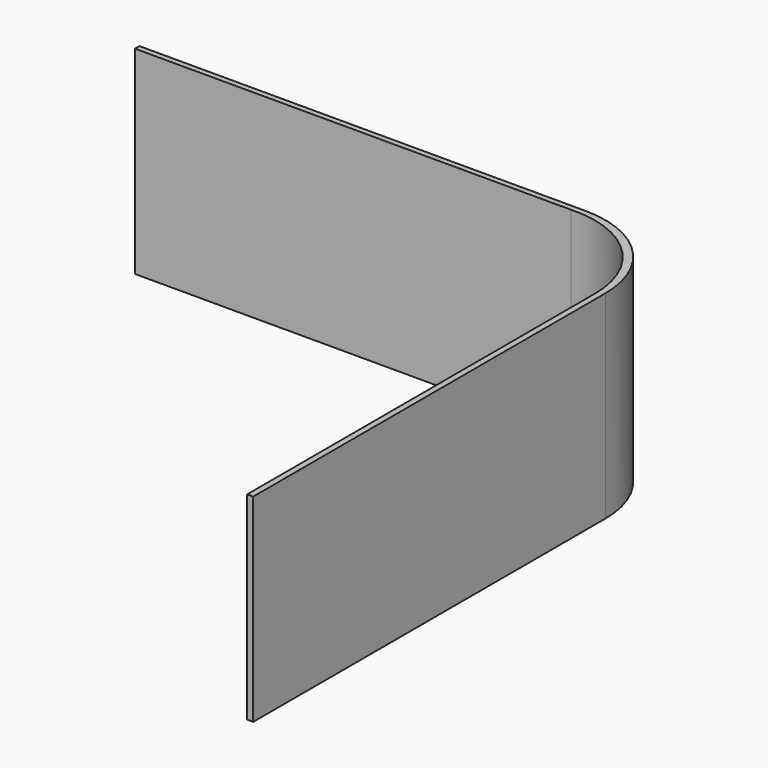
from build123d import *

# Parameters (mm, degrees)
F1_DEPTH = 101.6
F2_DEPTH = 152.4
F3_DEPTH = 152.4


with BuildPart() as f1:
    # F0 (on Top) → F1 (new body)
    with BuildSketch(Plane.XY):
        with BuildLine():
            Line((50.8, -73.0918422341), (50.8, 0))
            ThreePointArc((50.8, 0), (35.9210244843, 35.9210244843), (0, 50.8))
            Line((0, 50.8), (-76.0997384787, 50.8))
            Line((-76.0997384787, 50.8), (-76.0997384787, 47.9443576366))
            Line((-76.0997384787, 47.9443576366), (-5.2502147954, 47.9443576366))
            ThreePointArc((-5.2502147954, 47.9443576366), (32.074779717, 33.8507856659), (47.7087852046, -2.8556423634))
            Line((47.7087852046, -2.8556423634), (47.7087852046, -73.0918422341))
            Line((47.7087852046, -73.0918422341), (50.8, -73.0918422341))
        make_face()
    extrude(amount=F1_DEPTH)

    # F2 (add): a face of the model
    f2_faces = [f1.faces().sort_by_distance(p)[0] for p in [
        (49.2543926023, -73.0918422341, 50.8),
    ]]
    extrude(f2_faces, amount=F2_DEPTH)

    # F3 (add): a face of the model
    f3_faces = [f1.faces().sort_by_distance(p)[0] for p in [
        (-76.0997384787, 49.3721788183, 50.8),
    ]]
    extrude(f3_faces, amount=F3_DEPTH)


solid = f1.part
